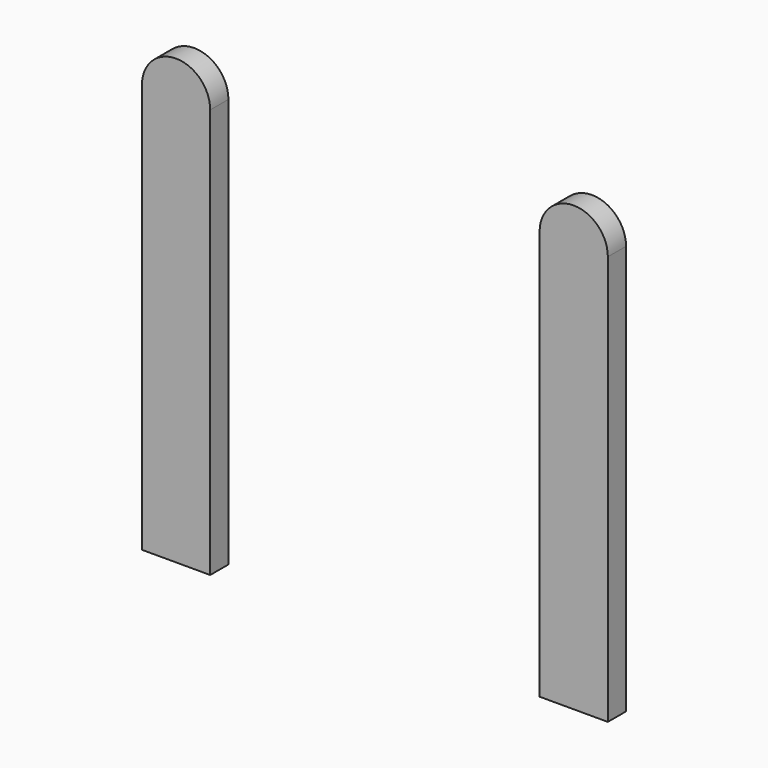
from build123d import *

# Parameters (mm, degrees)
F0_W     = 9.525
F0_H     = 57.15
F1_DEPTH = 3.175


with BuildPart() as f1:
    # F0 (on Front) → F1 (new body)
    with BuildSketch(Plane.XZ):
        with Locations((67.845106, 28.575)):
            Rectangle(F0_W, F0_H)
        with BuildLine():
            ThreePointArc((72.607606, 57.15), (67.845106, 61.9125), (63.082606, 57.15))
            Line((63.082606, 57.15), (72.607606, 57.15))
        make_face()
        with BuildLine():
            Line((118.581594, 57.15), (128.106594, 57.15))
            ThreePointArc((128.106594, 57.15), (123.344094, 61.9125), (118.581594, 57.15))
        make_face()
        with Locations((123.344094, 28.575)):
            Rectangle(F0_W, F0_H)
    extrude(amount=F1_DEPTH)


solid = f1.part
